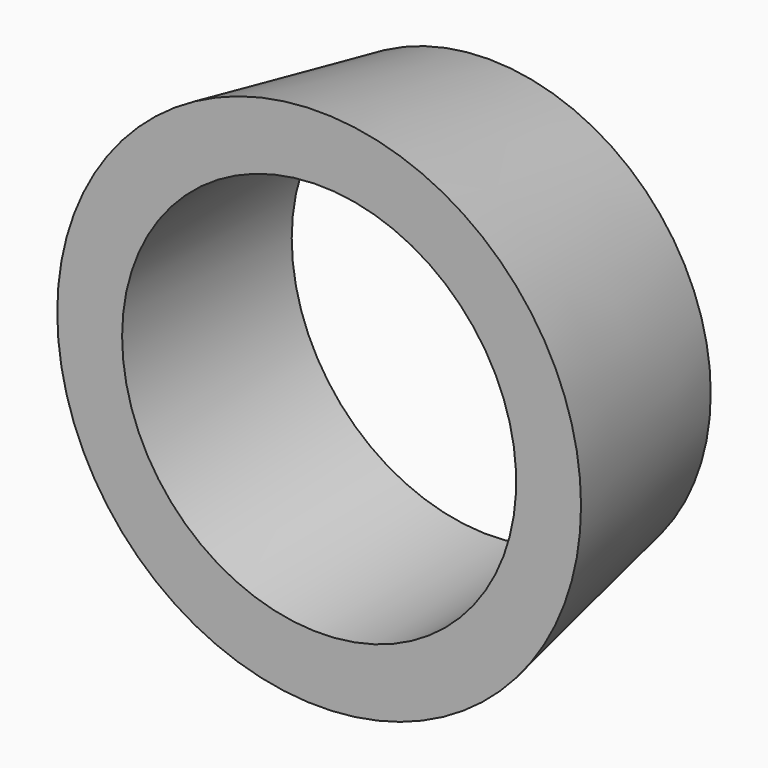
from build123d import *

# Parameters (mm, degrees)
F0_R     = 8.9
F2_R     = 10.5
F4_R     = 7.9
F5_DEPTH = 8.501


with BuildPart() as f3:
    # F0 (on Front) → F3 section 0
    with BuildSketch(Plane.XZ):
        Circle(F0_R)
    # F2 (on offset) → F3 section 1
    with BuildSketch(Plane.XZ.offset(8.5)):
        Circle(F2_R)
    loft()

    # F4 (on face) → F5 (cut, through all)
    with BuildSketch(Plane(origin=(0, 0, 0), x_dir=(-1, 0, 0), z_dir=(0, 1, 0))):
        Circle(F4_R)
    extrude(amount=-F5_DEPTH, mode=Mode.SUBTRACT)


solid = f3.part
